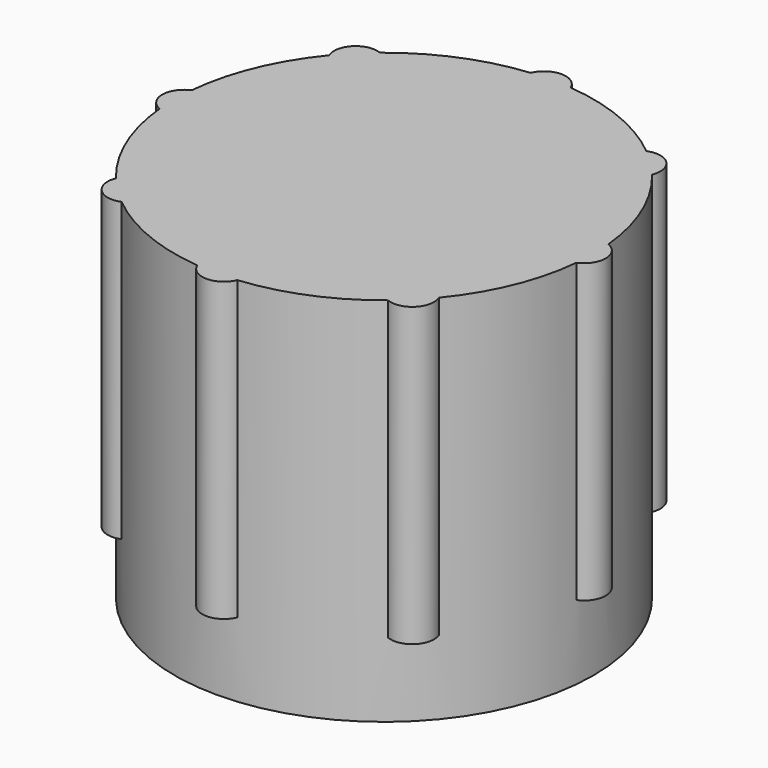
from build123d import *

# Parameters (mm, degrees)
CYLINDER_R         = 14.1
CYLINDER_DEPTH     = 25
PAD_DEPTH          = 20
POLARPATTERN_COUNT = 8


with BuildPart() as part:
    # Cylinder → Cylinder (join)
    with BuildSketch(Plane.XY):
        Circle(CYLINDER_R)
    extrude(amount=CYLINDER_DEPTH)

    # Sketch001 (on Face2 of Cylinder) → Pad (join)
    with BuildSketch(Plane.XY.offset(25)):
        with BuildLine():
            ThreePointArc((1.35, 14.0352235465), (0, 14.9352235465), (-1.35, 14.0352235465))
            ThreePointArc((1.35, 14.0352235465), (0, 14.1), (-1.35, 14.0352235465))
        make_face()
    pad = extrude(amount=-PAD_DEPTH)

    # PolarPattern: Pad ×8 about axis
    polarpattern_axis = Axis((0, 0, 25), (0, 0, 1))
    for i in range(1, POLARPATTERN_COUNT):
        add(pad.rotate(polarpattern_axis, i * 360 / POLARPATTERN_COUNT))


solid = part.part
